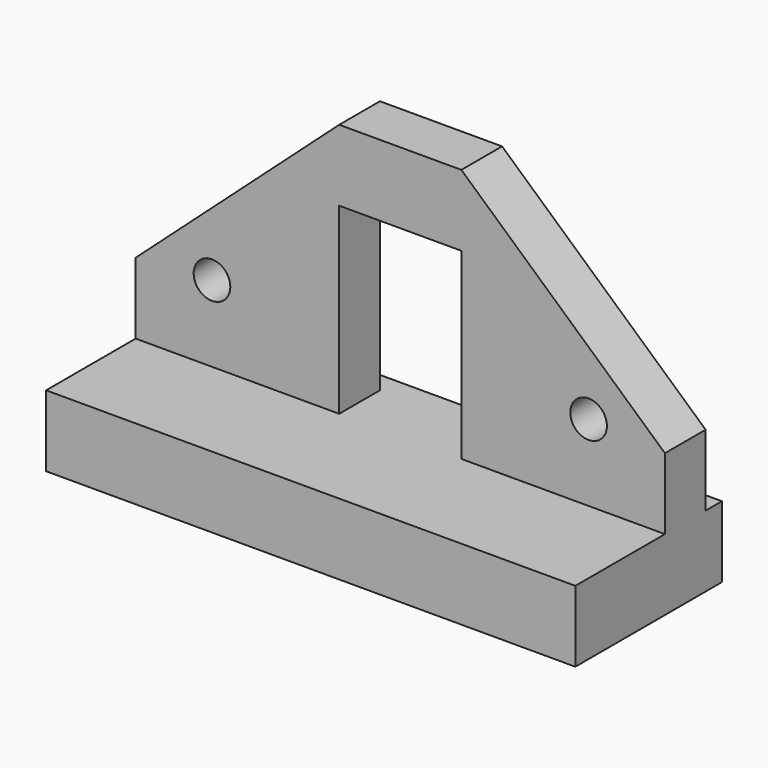
from build123d import *

# Parameters (mm, degrees)
SKETCH_W     = 52
SKETCH_H     = 18
PAD_DEPTH    = 7
SKETCH001_W  = 52
SKETCH001_H  = 5
PAD001_DEPTH = 25
SKETCH002_R  = 1.8
SKETCH002_W  = 12
SKETCH002_H  = 18
POCKET_DEPTH = 5


with BuildPart() as part:
    # Sketch → Pad (new body)
    with BuildSketch(Plane.XY):
        with Locations((0, -7)):
            Rectangle(SKETCH_W, SKETCH_H)
    extrude(amount=PAD_DEPTH)

    # Sketch001 → Pad001 (new body)
    with BuildSketch(Plane.XY.offset(7)):
        with Locations((0, -2.5)):
            Rectangle(SKETCH001_W, SKETCH001_H)
    extrude(amount=PAD001_DEPTH)

    # Sketch002 → Pocket (cut)
    with BuildSketch(Plane.XZ.offset(5)):
        with Locations((-18.5, 14.5)):
            Circle(SKETCH002_R)
        with Locations((18.5, 14.5)):
            Circle(SKETCH002_R)
        with Locations((0, 16)):
            Rectangle(SKETCH002_W, SKETCH002_H)
        Polygon((-26, 14), (-6, 32), (-26, 32), align=None)
        Polygon((6, 32), (26, 14), (26, 32), align=None)
    extrude(amount=-POCKET_DEPTH, mode=Mode.SUBTRACT)


solid = part.part
